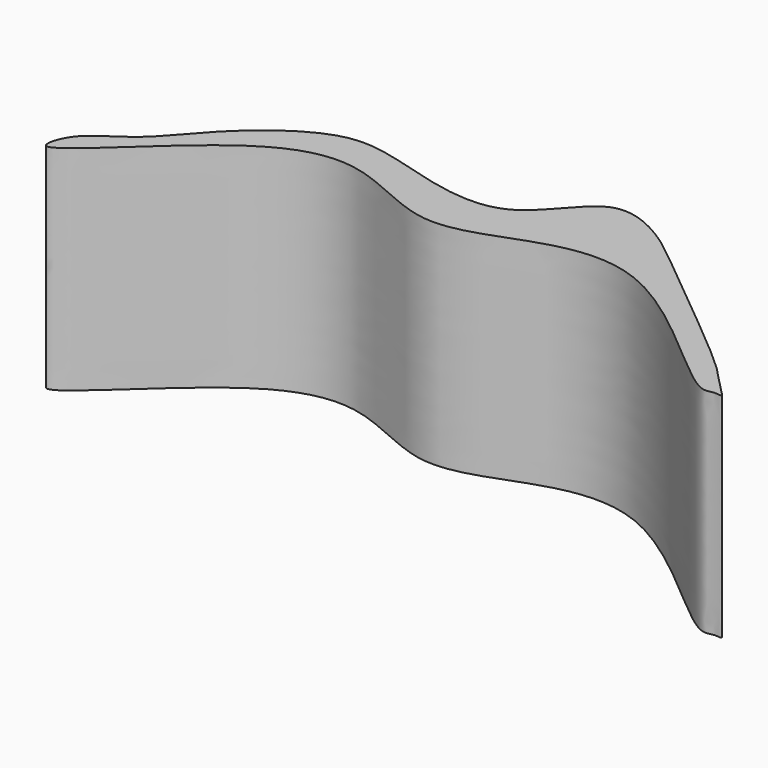
from build123d import *

# Parameters (mm, degrees)
F1_DEPTH = 36


with BuildPart() as f1:
    # F0 (on Top) → F1 (new body)
    with BuildSketch(Plane.XY):
        with BuildLine():
            add(Edge.make_bspline(
                [(-51.2349419296, 0), (-51.9804661294, 0.2750260782), (-50.6115063597, 5.5342220559), (-42.9087192947, 8.7596465537), (-36.2347479125, 18.4043583121), (-22.542313624, 28.5907503091), (-10.6139912798, 25.2509200981), (8.8797041903, 19.5965896896), (16.3951837147, 36.1695628989), (27.230846438, 30.6294598813), (30.9832301511, 27.7562817795), (40.248936756, 20.138684226), (48.1524904437, 13.6121386283), (57.8354963246, 5.4985504535), (60.4401578408, 2.2029175426), (63.3822445807, -0.3674823783), (61.1672179076, 0.2454566079), (58.3638694346, -1.9002637639), (33.500883598, 25.0607086497), (13.4267645521, 17.8820657841), (-0.0740435637, 12.6893923202), (-15.1276692213, 22.7481615188), (-31.5436209468, 19.0850973327), (-49.4106176044, -0.6729986292), (-51.2349419296, 0)],
                knots=[0, 0, 0, 0, 0.0280789166, 0.0679027327, 0.1154754003, 0.1699633212, 0.2182606257, 0.2762770108, 0.3275096191, 0.3691341142, 0.4006955434, 0.4469830501, 0.4933841734, 0.5413899344, 0.5714460622, 0.5930110946, 0.607636215, 0.6284555059, 0.7066174391, 0.7683744628, 0.8186232248, 0.87315422, 0.931289889, 1, 1, 1, 1], degree=3))
        make_face()
    extrude(amount=F1_DEPTH)


solid = f1.part
